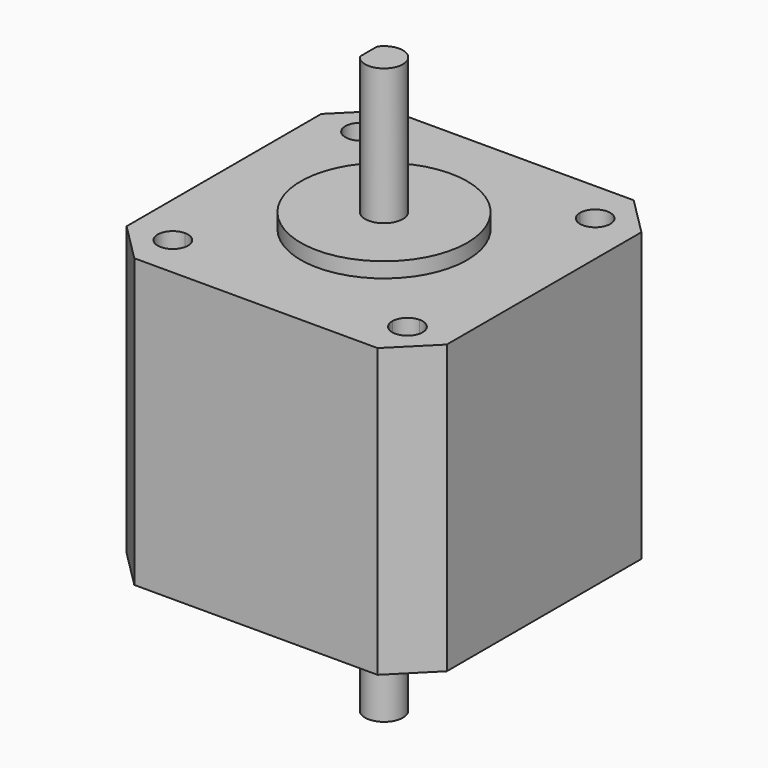
from build123d import *

# Parameters (mm, degrees)
F1_DEPTH = 20
F0_W     = 42.3
F0_H     = 42.3
F0_R     = 11
F2_DEPTH = 38
F3_DEPTH = 2
F4_DEPTH = 56
F5_SIZE  = 5.08


with BuildPart() as f1:
    # F0 (on Top) → F1 (new body)
    with BuildSketch(Plane.XY):
        with BuildLine():
            Line((-2.05, 1.4309088021), (-2.05, -1.4309088021))
            ThreePointArc((-2.05, -1.4309088021), (2.5, 0), (-2.05, 1.4309088021))
        make_face()
    extrude(amount=F1_DEPTH)


with BuildPart() as f2:
    # F0 (on Top) → F2 (new body)
    with BuildSketch(Plane.XY):
        Rectangle(F0_W, F0_H)
        with BuildLine():
            ThreePointArc((-15.5, 13.5), (-16.9142135624, 16.9142135624), (-13.5, 15.5))
            Line((-13.5, 15.5), (13.5, 15.5))
            ThreePointArc((13.5, 15.5), (15.5, 17.5), (17.5, 15.5))
            ThreePointArc((17.5, 15.5), (16.9142135624, 14.0857864376), (15.5, 13.5))
            Line((15.5, 13.5), (15.5, -13.5))
            ThreePointArc((15.5, -13.5), (16.9142135624, -14.0857864376), (17.5, -15.5))
            ThreePointArc((17.5, -15.5), (15.5, -17.5), (13.5, -15.5))
            Line((13.5, -15.5), (-13.5, -15.5))
            ThreePointArc((-13.5, -15.5), (-16.9142135624, -16.9142135624), (-15.5, -13.5))
            Line((-15.5, -13.5), (-15.5, 13.5))
        make_face(mode=Mode.SUBTRACT)
        with BuildLine():
            Line((13.5, 15.5), (-13.5, 15.5))
            ThreePointArc((-13.5, 15.5), (-14.0857864376, 14.0857864376), (-15.5, 13.5))
            Line((-15.5, 13.5), (-15.5, -13.5))
            ThreePointArc((-15.5, -13.5), (-14.0857864376, -14.0857864376), (-13.5, -15.5))
            Line((-13.5, -15.5), (13.5, -15.5))
            ThreePointArc((13.5, -15.5), (14.0857864376, -14.0857864376), (15.5, -13.5))
            Line((15.5, -13.5), (15.5, 13.5))
            ThreePointArc((15.5, 13.5), (14.0857864376, 14.0857864376), (13.5, 15.5))
        make_face()
        Circle(F0_R, mode=Mode.SUBTRACT)
        Circle(F0_R)
        with BuildLine():
            ThreePointArc((-2.05, 1.4309088021), (2.5, 0), (-2.05, -1.4309088021))
            Line((-2.05, -1.4309088021), (-2.05, 1.4309088021))
        make_face(mode=Mode.SUBTRACT)
    extrude(amount=-F2_DEPTH)

    # F5
    f5_edges = [f2.edges().sort_by_distance(p)[0] for p in [
        (-21.15, 21.15, -19),
        (21.15, 21.15, -19),
        (21.15, -21.15, -19),
        (-21.15, -21.15, -19),
    ]]
    chamfer(f5_edges, length=F5_SIZE)


with BuildPart() as f3:
    # F0 (on Top) → F3 (new body)
    with BuildSketch(Plane.XY):
        Circle(F0_R)
        with BuildLine():
            ThreePointArc((-2.05, 1.4309088021), (2.5, 0), (-2.05, -1.4309088021))
            Line((-2.05, -1.4309088021), (-2.05, 1.4309088021))
        make_face(mode=Mode.SUBTRACT)
    extrude(amount=F3_DEPTH)


with BuildPart() as f4:
    # F0 (on Top) → F4 (new body)
    with BuildSketch(Plane.XY):
        with BuildLine():
            Line((-2.05, 1.4309088021), (-2.05, -1.4309088021))
            ThreePointArc((-2.05, -1.4309088021), (2.5, 0), (-2.05, 1.4309088021))
        make_face()
    extrude(amount=-F4_DEPTH)


solid = Compound([f1.part, f2.part, f3.part, f4.part])
